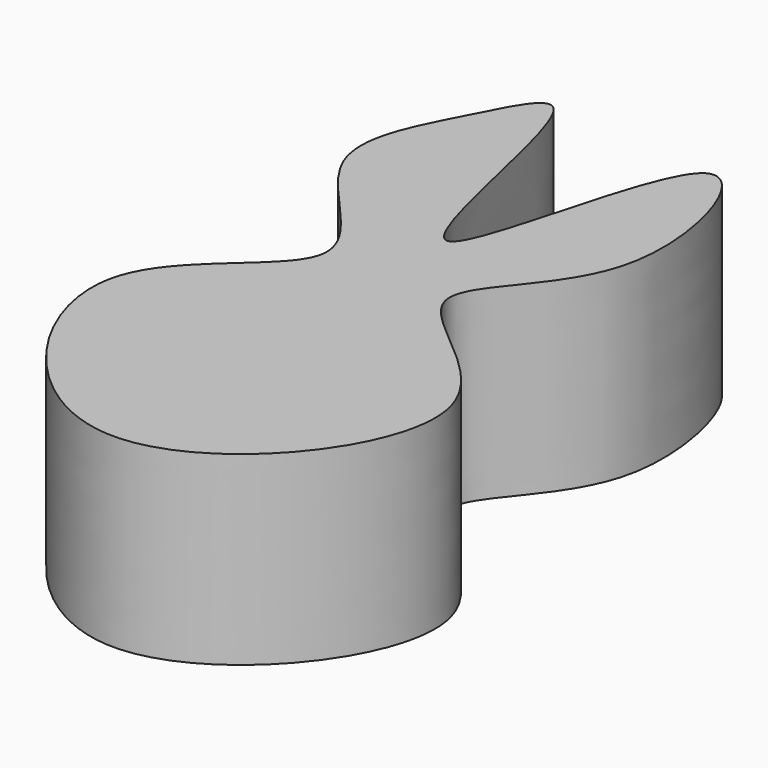
from build123d import *

# Parameters (mm, degrees)
F1_DEPTH = 42.2360021621


with BuildPart() as f1:
    # F0 (on Top) → F1 (new body)
    with BuildSketch(Plane.XY):
        with BuildLine():
            add(Edge.make_bspline(
                [(-26.908993721, 40.8710986376), (-23.3775532641, 47.7485157367), (-13.79767437, 68.5263293443), (-0.4699350116, -44.6576505265), (16.7389272259, 81.4190063854), (42.1595915781, 5.7282117793), (-3.6034931563, -18.7339848795), (63.1154558474, -45.6263071654), (-1.1273289364, -124.0426397269), (-58.0433065052, -43.161232213), (3.3848049063, -19.5167691824), (-43.5680898822, 11.4893096282), (-31.9213051212, 31.1097118745), (-26.908993721, 40.8710986376)],
                knots=[0, 0, 0, 0, 0.054358874, 0.1593813896, 0.2629157299, 0.3502907287, 0.4349389067, 0.5269914157, 0.6381851454, 0.7490431151, 0.8379270867, 0.9228463265, 1, 1, 1, 1], degree=3))
        make_face()
    extrude(amount=F1_DEPTH)


solid = f1.part
